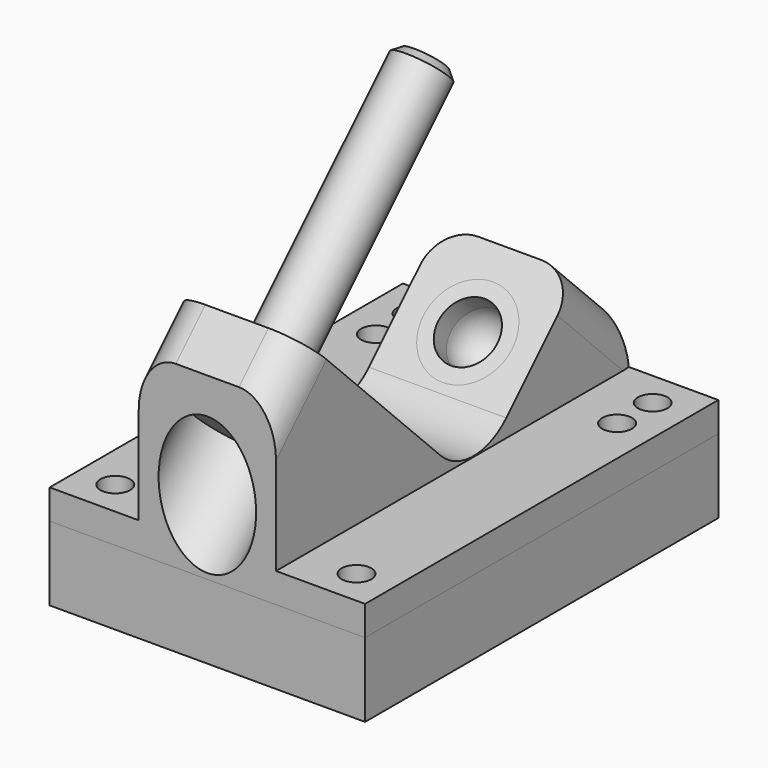
from build123d import *

# Parameters (mm, degrees)
F1_DEPTH  = 26.9875
F2_R      = 9.906
F3_W      = 75.565
F3_H      = 31.9594877579
F4_DEPTH  = 15.24
F5_R      = 2.54
F6_DEPTH  = 5.08
F11_R     = 6.35
F17_SIZE  = 1.27
F18_W     = 53.975
F18_H     = 75.565
F18_R     = 2.54
F19_DEPTH = 12.7


with BuildPart() as f1:
    # F0 (on Right) → F1 (new body)
    with BuildSketch(Plane.YZ):
        Polygon((0, 30.7152561211), (0, 0), (75.565, 0), (75.565, 12.7), (64.6958964237, 23.5691035763), (42.2452561211, 1.1184632736), (6.3242316368, 37.0394877579), align=None)
    extrude(amount=F1_DEPTH)

    # F2
    f2_edges = [f1.edges().sort_by_distance(p)[0] for p in [
        (13.49375, 42.245256, 1.118463),
    ]]
    fillet(f2_edges, radius=F2_R)

    # F3 (on face) → F4 (cut)
    with BuildSketch(Plane.YZ.offset(26.9875)):
        with Locations((37.7825, 21.0597438789)):
            Rectangle(F3_W, F3_H)
    extrude(amount=-F4_DEPTH, mode=Mode.SUBTRACT)

    # F5 (on face) → F6 (cut, through all)
    with BuildSketch(Plane(origin=(0, 0, 0), x_dir=(1, 0, 0), z_dir=(0, 0, -1))):
        with Locations((20.6375, -6.096)):
            Circle(F5_R)
        with Locations((20.6375, -61.849)):
            Circle(F5_R)
        with Locations((20.6375, -69.469)):
            Circle(F5_R)
    extrude(amount=-F6_DEPTH, mode=Mode.SUBTRACT)

    # F7 (on face) → F8 (revolve, cut)
    with BuildSketch(Plane(origin=(0, 0, 0), x_dir=(0, -1, 0), z_dir=(-1, 0, 0))):
        Polygon((-5.2016996217, 24.6916355914), (-11.9368917125, 31.4268276822), (-15.3044877579, 28.0592316368), (6.3773719395, 6.3773719395), (12.277400211, 12.277400211), (-2.6692673955, 27.2240678175), align=None)
    revolve(axis=Axis((0, 4.4635579092, 17.2183017881), (0, 0.7071067812, 0.7071067812)), mode=Mode.SUBTRACT)

    # F11
    f11_edges = [f1.edges().sort_by_distance(p)[0] for p in [
        (11.7475, 70.130448, 18.134552),
        (11.7475, 3.162116, 33.877372),
    ]]
    fillet(f11_edges, radius=F11_R)

    # F12 (on Right) → F13 (revolve, cut)
    with BuildSketch(Plane.YZ):
        Polygon((70.0840500964, 10.9967450068), (61.1037939753, 19.9770011278), (55.7156403027, 14.5888474552), (64.6958964237, 5.6085913341), align=None)
    revolve(axis=Axis((0, 60.2057683632, 10.0987193947), (0, -0.7071067812, 0.7071067812)), mode=Mode.SUBTRACT)

    # F16: F1 across plane


with BuildPart() as f10:
    # F9 (on Right) → F10 (revolve)
    with BuildSketch(Plane.YZ):
        Polygon((5.2016996217, 24.6916355914), (2.9566355914, 26.9366996217), (1.1605843672, 25.1406483974), (6.7732444428, 19.5279883218), (46.7353841816, 59.4901280605), (43.3677881362, 62.8577241059), align=None)
    revolve(axis=Axis((0, 26.7543143122, 39.5090581912), (0, -0.7071067812, -0.7071067812)))

    # F17
    f17_edges = [f10.edges().sort_by_distance(p)[0] for p in [
        (0, 50.10298, 56.122532),
    ]]
    chamfer(f17_edges, length=F17_SIZE)


with BuildPart() as f15:
    # F14 (on Right) → F15 (revolve)
    with BuildSketch(Plane.YZ):
        with BuildLine():
            Line((70.0840500964, 10.9967450068), (61.1037939753, 19.9770011278))
            Line((61.1037939753, 19.9770011278), (59.3077427511, 18.1809499036))
            Line((59.3077427511, 18.1809499036), (62.0018195874, 15.4868730673))
            ThreePointArc((62.0018195874, 15.4868730673), (63.489717139, 11.8947706189), (62.0018195874, 8.3026681704))
            Line((62.0018195874, 8.3026681704), (64.6958964237, 5.6085913341))
            Line((64.6958964237, 5.6085913341), (70.0840500964, 10.9967450068))
        make_face()
    revolve(axis=Axis((0, 40.0001920908, 30.3042956671), (0, -0.7071067812, 0.7071067812)))


with BuildPart() as f1_1:
    add(f1.part)
    add(f1.part.mirror(Plane.YZ))


with BuildPart() as f19:
    # F18 (on face) → F19 (new body)
    with BuildSketch(Plane(origin=(0, 0, 0), x_dir=(1, 0, 0), z_dir=(0, 0, -1))):
        with Locations((0, -37.7825)):
            Rectangle(F18_W, F18_H)
        with Locations((-20.6375, -69.469)):
            Circle(F18_R, mode=Mode.SUBTRACT)
        with Locations((20.6375, -69.469)):
            Circle(F18_R, mode=Mode.SUBTRACT)
        with Locations((-20.6375, -6.096)):
            Circle(F18_R, mode=Mode.SUBTRACT)
        with Locations((20.6375, -6.096)):
            Circle(F18_R, mode=Mode.SUBTRACT)
    extrude(amount=F19_DEPTH)


solid = Compound([f10.part, f15.part, f1_1.part, f19.part])
